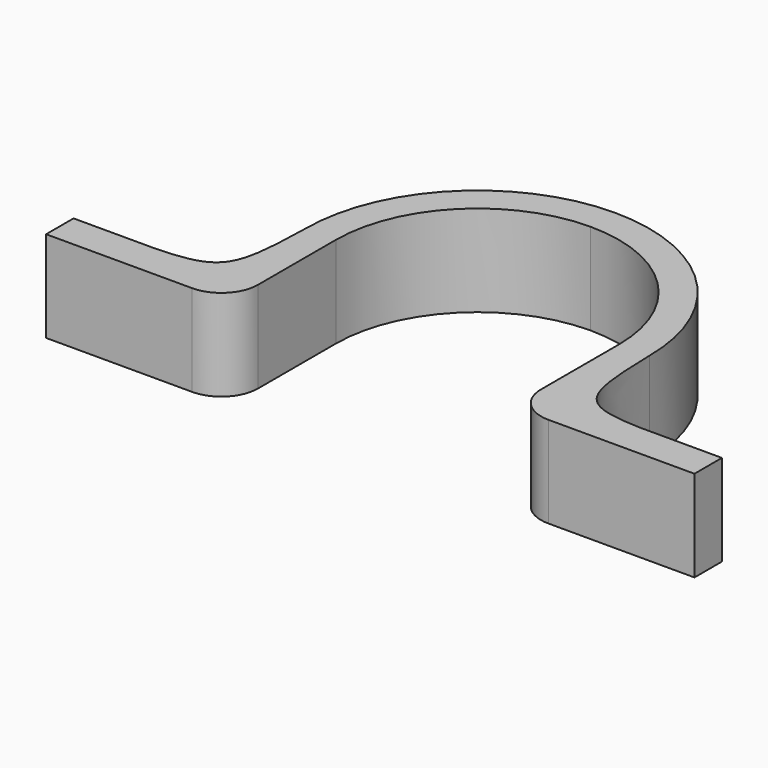
from build123d import *

# Parameters (mm, degrees)
F1_DEPTH = 9.525


with BuildPart() as f1:
    # F0 (on Top) → F1 (new body)
    with BuildSketch(Plane.XY):
        with BuildLine():
            ThreePointArc((0, 14.76375), (10.439548, 10.439548), (14.76375, 0))
            Line((14.76375, 0), (14.76375, -10.16))
            ThreePointArc((14.76375, -10.16), (15.879673, -12.854077), (18.57375, -13.97))
            Line((18.57375, -13.97), (33.81375, -13.97))
            Line((33.81375, -13.97), (33.81375, -10.388821))
            Line((33.81375, -10.388821), (25.264271, -10.388821))
            add(Edge.make_bspline(
                [(17.93875, 0), (18.161472, -8.768542), (18.57375, -10.16), (25.264271, -10.388821)],
                knots=[0, 0, 0, 0, 12.711839, 12.711839, 12.711839, 12.711839], degree=3))
            ThreePointArc((17.93875, 0), (12.684612, 12.684612), (0, 17.93875))
            ThreePointArc((0, 17.93875), (-12.684612, 12.684612), (-17.93875, 0))
            add(Edge.make_bspline(
                [(-17.93875, 0), (-18.161472, -8.768542), (-18.57375, -10.16), (-25.264271, -10.388821)],
                knots=[0, 0, 0, 0, 12.711839, 12.711839, 12.711839, 12.711839], degree=3))
            Line((-25.264271, -10.388821), (-33.81375, -10.388821))
            Line((-33.81375, -10.388821), (-33.81375, -13.97))
            Line((-33.81375, -13.97), (-18.57375, -13.97))
            ThreePointArc((-18.57375, -13.97), (-15.879673, -12.854077), (-14.76375, -10.16))
            Line((-14.76375, -10.16), (-14.76375, 0))
            ThreePointArc((-14.76375, 0), (-10.439548, 10.439548), (0, 14.76375))
        make_face()
        with BuildLine():
            ThreePointArc((0, 14.76375), (10.439548, 10.439548), (14.76375, 0))
            Line((14.76375, 0), (14.76375, -10.16))
            ThreePointArc((14.76375, -10.16), (15.879673, -12.854077), (18.57375, -13.97))
            Line((18.57375, -13.97), (33.81375, -13.97))
            Line((33.81375, -13.97), (33.81375, -10.388821))
            Line((33.81375, -10.388821), (25.264271, -10.388821))
            add(Edge.make_bspline(
                [(17.93875, 0), (18.161472, -8.768542), (18.57375, -10.16), (25.264271, -10.388821)],
                knots=[0, 0, 0, 0, 12.711839, 12.711839, 12.711839, 12.711839], degree=3))
            ThreePointArc((17.93875, 0), (12.684612, 12.684612), (0, 17.93875))
            ThreePointArc((0, 17.93875), (-12.684612, 12.684612), (-17.93875, 0))
            add(Edge.make_bspline(
                [(-17.93875, 0), (-18.161472, -8.768542), (-18.57375, -10.16), (-25.264271, -10.388821)],
                knots=[0, 0, 0, 0, 12.711839, 12.711839, 12.711839, 12.711839], degree=3))
            Line((-25.264271, -10.388821), (-33.81375, -10.388821))
            Line((-33.81375, -10.388821), (-33.81375, -13.97))
            Line((-33.81375, -13.97), (-18.57375, -13.97))
            ThreePointArc((-18.57375, -13.97), (-15.879673, -12.854077), (-14.76375, -10.16))
            Line((-14.76375, -10.16), (-14.76375, 0))
            ThreePointArc((-14.76375, 0), (-10.439548, 10.439548), (0, 14.76375))
        make_face()
    extrude(amount=F1_DEPTH)


solid = f1.part
